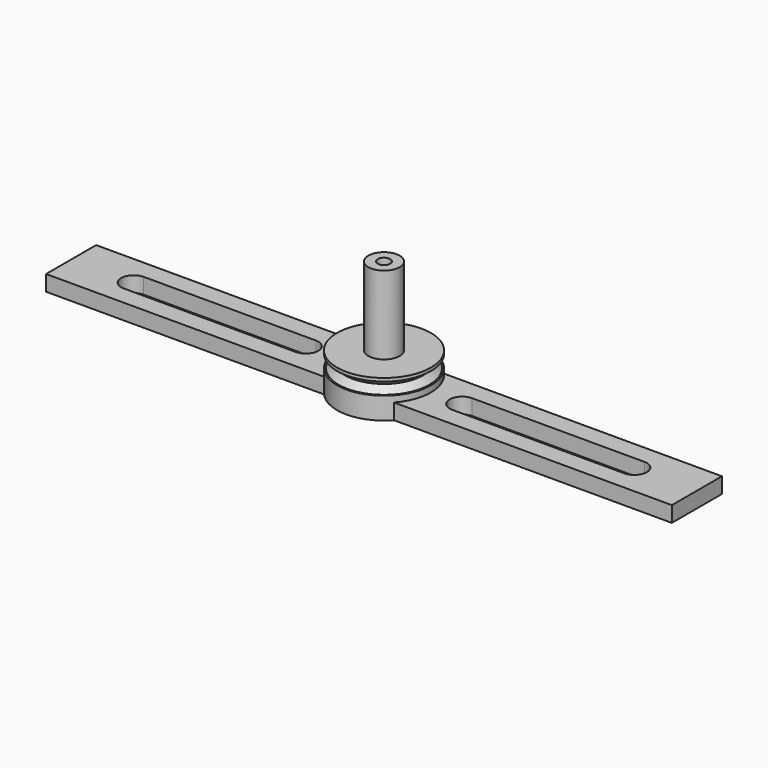
from build123d import *

# Parameters (mm, degrees)
F0_W          = 200
F0_H          = 20
F1_DEPTH      = 2.5
F2_R          = 2.1
F3_DEPTH      = 2.501
F3_DEPTH_BACK = 2.501
F5_DEPTH      = 12.5
F10_W         = 200
F10_H         = 20
F11_DEPTH     = 4.75
F12_R         = 2
F13_DEPTH     = 32.251


with BuildPart() as f1:
    # F0 (on Top) → F1 (new body, symmetric)
    with BuildSketch(Plane.XY):
        Rectangle(F0_W, F0_H)
    extrude(amount=F1_DEPTH, both=True)

    # F2 (on Top) → F3 (cut, two sides)
    with BuildSketch(Plane.XY) as f3_sk:
        Circle(F2_R)
    extrude(amount=F3_DEPTH, mode=Mode.SUBTRACT)
    extrude(f3_sk.sketch, amount=-F3_DEPTH_BACK, mode=Mode.SUBTRACT)

    # F4 (on Top) → F5 (cut, symmetric)
    with BuildSketch(Plane.XY):
        with BuildLine():
            ThreePointArc((-80, 4), (-84, 0), (-80, -4))
            Line((-80, -4), (-25, -4))
            ThreePointArc((-25, -4), (-21, 0), (-25, 4))
            Line((-25, 4), (-80, 4))
        make_face()
        with BuildLine():
            Line((80, 4), (25, 4))
            ThreePointArc((25, 4), (21, 0), (25, -4))
            Line((25, -4), (80, -4))
            ThreePointArc((80, -4), (84, 0), (80, 4))
        make_face()
    extrude(amount=F5_DEPTH, both=True, mode=Mode.SUBTRACT)


with BuildPart() as f7:
    # F6 (on Front) → F7 (revolve)
    with BuildSketch(Plane.XZ):
        Polygon((0, 34.5), (0, -2.5), (15, -2.5), (15, 9.5), (5, 9.5), (5, 34.5), align=None)
    revolve(axis=Axis((0, 0, 18.5031344495), (0, 0, 1)))

    # F8 (on Front) → F9 (revolve, cut)
    with BuildSketch(Plane.XZ):
        Polygon((15, 4.5), (15, 8.5), (14.5, 8.5), (12.5, 6.5), (14.5, 4.5), align=None)
    revolve(axis=Axis((0, 0, 16), (0, 0, -1)), mode=Mode.SUBTRACT)

    # F10 (on face) → F11 (cut)
    with BuildSketch(Plane(origin=(0, 0, -2.5), x_dir=(1, 0, 0), z_dir=(0, 0, -1))):
        Rectangle(F10_W, F10_H)
    extrude(amount=-F11_DEPTH, mode=Mode.SUBTRACT)

    # F12 (on face) → F13 (cut, through all)
    with BuildSketch(Plane(origin=(0, 0, 2.25), x_dir=(1, 0, 0), z_dir=(0, 0, -1))):
        Circle(F12_R)
    extrude(amount=-F13_DEPTH, mode=Mode.SUBTRACT)


solid = Compound([f1.part, f7.part])
